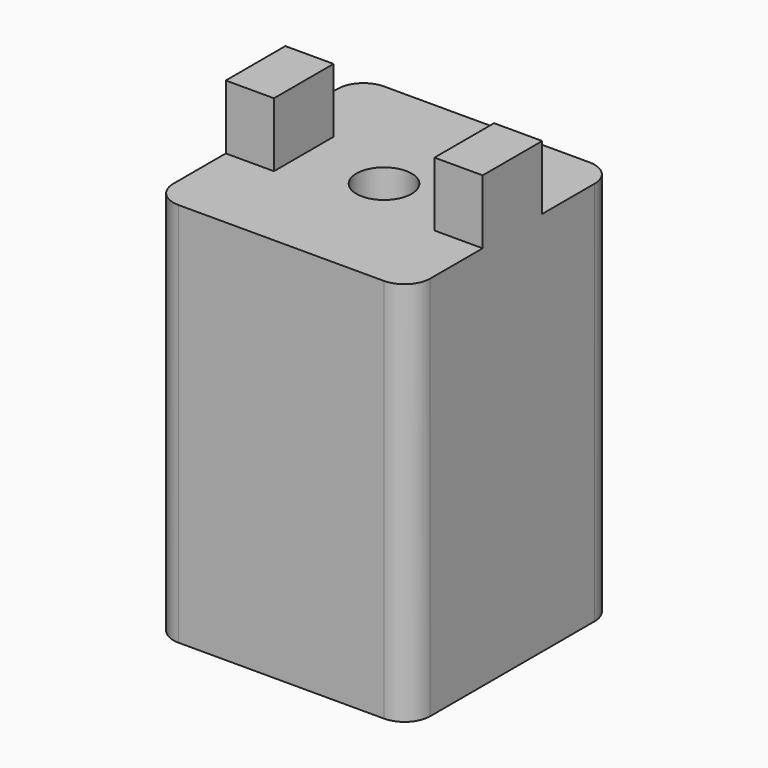
from build123d import *

# Parameters (mm, degrees)
F0_W     = 20
F0_H     = 20
F1_DEPTH = 30
F2_R     = 2.15
F3_DEPTH = 30.001
F4_R     = 2
F5_W     = 3.75
F5_H     = 5.8
F6_DEPTH = 5


with BuildPart() as f1:
    # F0 (on Top) → F1 (new body)
    with BuildSketch(Plane.XY):
        with Locations((10, 10)):
            Rectangle(F0_W, F0_H)
    extrude(amount=F1_DEPTH)

    # F2 (on face) → F3 (cut, through all)
    with BuildSketch(Plane.XY.offset(30)):
        with Locations((10, 10)):
            Circle(F2_R)
    extrude(amount=-F3_DEPTH, mode=Mode.SUBTRACT)

    # F4
    f4_edges = [f1.edges().sort_by_distance(p)[0] for p in [
        (20, 0, 15),
        (0, 0, 15),
        (20, 20, 15),
        (0, 20, 15),
    ]]
    fillet(f4_edges, radius=F4_R)

    # F5 (on face) → F6 (join)
    with BuildSketch(Plane.XY.offset(30)):
        with Locations((1.875, 10)):
            Rectangle(F5_W, F5_H)
        with Locations((18.125, 10)):
            Rectangle(F5_W, F5_H)
    extrude(amount=F6_DEPTH)


solid = f1.part
